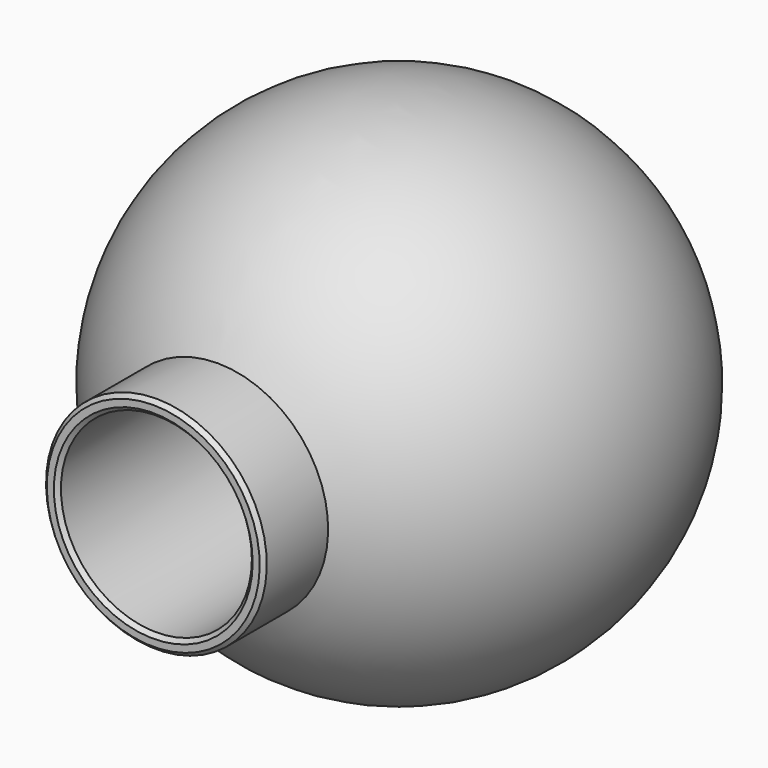
from build123d import *

# Parameters (mm, degrees)
F3_D     = 10.5
F3_DEPTH = 18
F3_TIP   = 3.1545182499
F4_R     = 6.054221828
F5_DEPTH = 14
F6_SIZE  = 0.25


with BuildPart() as f1:
    # F0 (on Right) → F1 (revolve)
    with BuildSketch(Plane.YZ):
        with BuildLine():
            ThreePointArc((16, 0), (3.5916630466, 15.5916630466), (-14.3874945699, 7))
            Line((-14.3874945699, 7), (-16, 7))
            Line((-16, 7), (-19.5, 7))
            Line((-19.5, 7), (-19.5, 0))
            Line((-19.5, 0), (-16, 0))
            Line((-16, 0), (16, 0))
        make_face()
    revolve(axis=Axis((0, 0, 0), (0, 1, 0)))

    # F3
    with Locations(Plane.XZ.offset(19.5)):
        with Locations((0, 0)):
            Hole(F3_D / 2, depth=F3_DEPTH)
            with Locations((0, 0, -(F3_DEPTH + F3_TIP / 2))):  # 118° drill point
                Cone(0, F3_D / 2, F3_TIP, mode=Mode.SUBTRACT)

    # F4 (on face) → F5 (cut)
    with BuildSketch(Plane.XZ.offset(19.5)):
        Circle(F4_R)
    extrude(amount=-F5_DEPTH, mode=Mode.SUBTRACT)

    # F6
    f6_edges = [f1.edges().sort_by_distance(p)[0] for p in [
        (0, -19.5, -7),
        (-6.054222, -19.5, 0),
    ]]
    chamfer(f6_edges, length=F6_SIZE)


solid = f1.part
